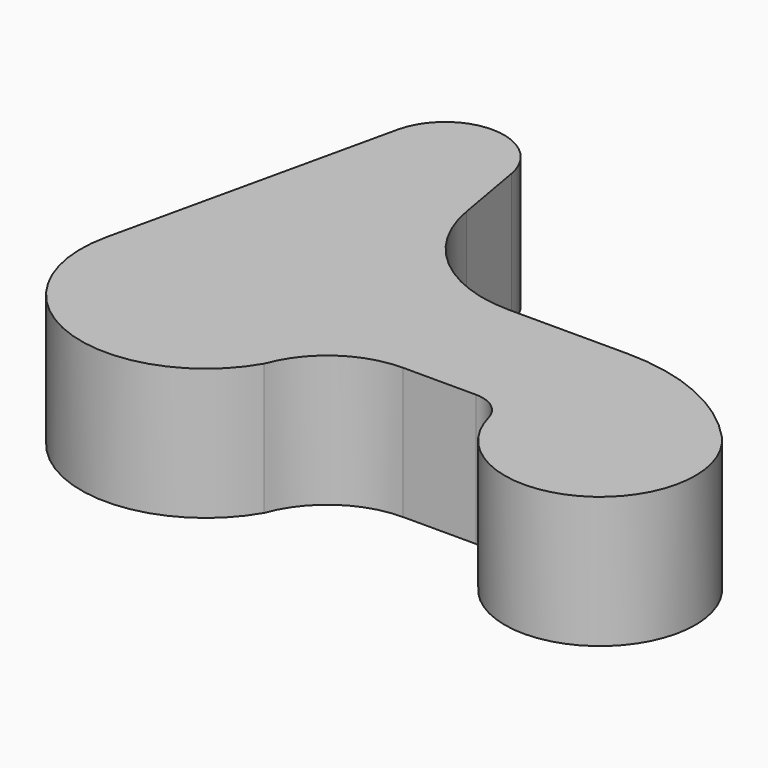
from build123d import *

# Parameters (mm, degrees)
F1_DEPTH = 40


with BuildPart() as f1:
    # F0 (on Top) → F1 (new body)
    with BuildSketch(Plane.XY):
        with BuildLine():
            Line((-17.559889, 94.956044), (-37.070878, 8.351648))
            ThreePointArc((-37.070878, 8.351648), (-13.833241, -35.392675), (32.908965, -19))
            ThreePointArc((32.908965, -19), (43.455181, -5.223464), (60, 0))
            Line((60, 0), (82.303846, 0))
            ThreePointArc((82.303846, 0), (88.401345, -2.074061), (91.969527, -7.435897))
            ThreePointArc((91.969527, -7.435897), (133.948558, -25.42514), (141.332314, 19.645161))
            ThreePointArc((141.332314, 19.645161), (121.293071, 33.948656), (97.196491, 39))
            Line((97.196491, 39), (61, 39))
            ThreePointArc((61, 39), (35.28131, 48.364253), (21.604436, 72.072551))
            Line((21.604436, 72.072551), (17.728004, 94.117352))
            ThreePointArc((17.728004, 94.117352), (0.427687, 108.994918), (-17.559889, 94.956044))
        make_face()
    extrude(amount=F1_DEPTH)


solid = f1.part
